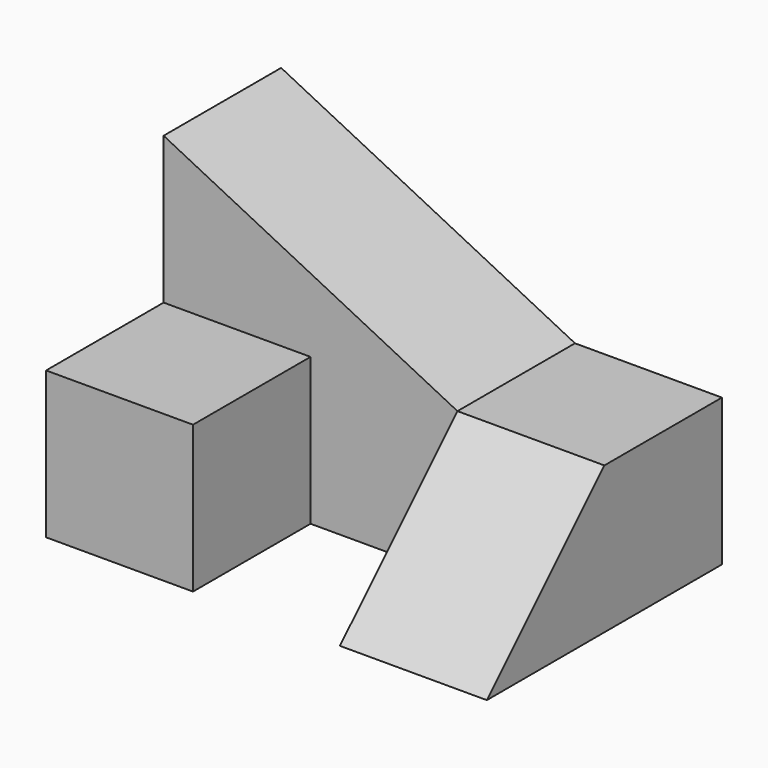
from build123d import *

# Parameters (mm, degrees)
F1_DEPTH = 12.7
F4_W     = 25.4
F4_H     = 25.4
F3_W     = 25.4
F3_H     = 50.8
F6_W     = 25.4
F6_H     = 25.4
F7_DEPTH = 25.4


with BuildPart() as f1:
    # F0 (on Right) → F1 (new body, symmetric)
    with BuildSketch(Plane.YZ):
        Polygon((-50.8, 0), (0, 0), (0, 25.4), (-25.4, 25.4), align=None)
    extrude(amount=F1_DEPTH, both=True)

    # F4 (on face) → F5 section 0
    with BuildSketch(Plane(origin=(-12.7, 0, 0), x_dir=(0, -1, 0), z_dir=(-1, 0, 0))):
        with Locations((12.7, 12.7)):
            Rectangle(F4_W, F4_H)
    # F3 (on offset) → F5 section 1
    with BuildSketch(Plane.YZ.offset(-63.5)):
        with Locations((-12.7, 25.4)):
            Rectangle(F3_W, F3_H)
    loft()

    # F6 (on face) → F7 (join)
    with BuildSketch(Plane.XZ.offset(25.4)):
        with Locations((-50.8, 12.7)):
            Rectangle(F6_W, F6_H)
    extrude(amount=F7_DEPTH)


solid = f1.part
